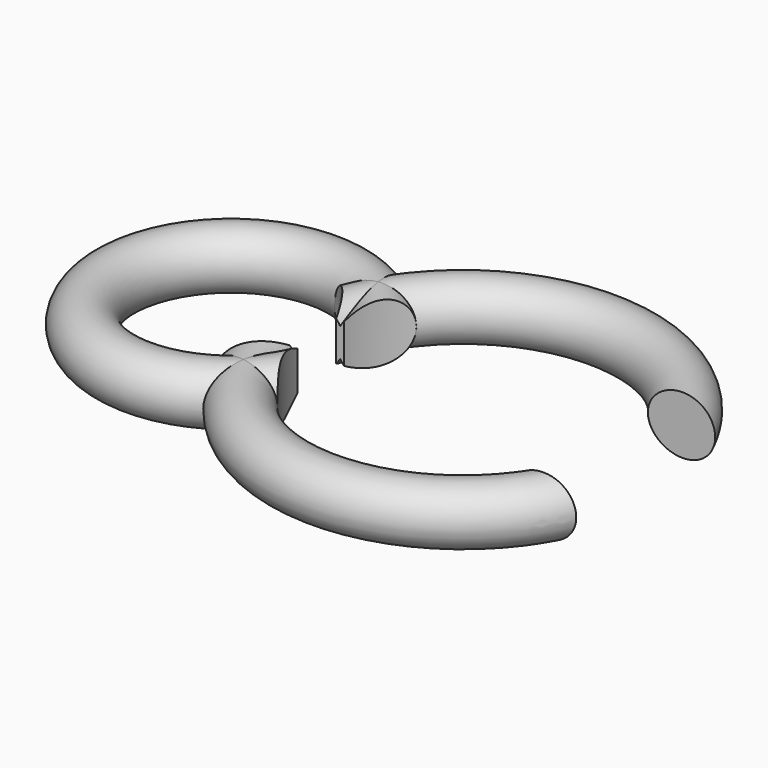
from build123d import *

# Parameters (mm, degrees)
BOX001_W          = 4
BOX001_H          = 3
BOX001_DEPTH      = 10
BOX_W             = 3
BOX_H             = 1
BOX_DEPTH         = 5
CYLINDER001_R     = 2.5
CYLINDER001_DEPTH = 10
CYLINDER_R        = 1.5
CYLINDER_DEPTH    = 10
TORUS_R           = 0.5
TORUS001_R        = 0.5


with BuildPart() as cubo001:
    # Box001 → Box001 (new body)
    with BuildSketch(Plane(origin=(0, -1.5, -6), x_dir=(1, 0, 0), z_dir=(0, 0, 1))):
        with Locations((2, 1.5)):
            Rectangle(BOX001_W, BOX001_H)
    extrude(amount=BOX001_DEPTH)


with BuildPart() as cubo:
    # Box → Box (new body)
    with BuildSketch(Plane(origin=(-4, -0.5, -3), x_dir=(1, 0, 0), z_dir=(0, 0, 1))):
        with Locations((1.5, 0.5)):
            Rectangle(BOX_W, BOX_H)
    extrude(amount=BOX_DEPTH)


with BuildPart() as cilindro001:
    # Cylinder001 → Cylinder001 (new body)
    with BuildSketch(Plane(origin=(-1, 0, -9), x_dir=(1, 0, 0), z_dir=(0, 0, 1))):
        Circle(CYLINDER001_R)
    extrude(amount=CYLINDER001_DEPTH)


with BuildPart() as cilindro:
    # Cylinder → Cylinder (new body)
    with BuildSketch(Plane(origin=(-5, 0, -4), x_dir=(1, 0, 0), z_dir=(0, 0, 1))):
        Circle(CYLINDER_R)
    extrude(amount=CYLINDER_DEPTH)


with BuildPart() as toro:
    # Torus → Torus (revolve)
    with BuildSketch(Plane(origin=(-1, 0, 0), x_dir=(1, 0, 0), z_dir=(0, -1, 0))):
        with Locations((3, 0)):
            Circle(TORUS_R)
    revolve(axis=Axis((-1, 0, 0), (0, 0, 1)))


with BuildPart() as cut003:
    # Torus001 → Torus001 (revolve)
    with BuildSketch(Plane(origin=(-5, 0, 0), x_dir=(1, 0, 0), z_dir=(0, -1, 0))):
        with Locations((2, 0)):
            Circle(TORUS001_R)
    revolve(axis=Axis((-5, 0, 0), (0, 0, 1)))

    # Fusion: union Toro
    add(toro.part)

    # Cut: cut Cilindro
    add(cilindro.part, mode=Mode.SUBTRACT)

    # Cut001: cut Cilindro001
    add(cilindro001.part, mode=Mode.SUBTRACT)

    # Cut002: cut Cubo
    add(cubo.part, mode=Mode.SUBTRACT)

    # Cut003: cut Cubo001
    add(cubo001.part, mode=Mode.SUBTRACT)


solid = cut003.part
